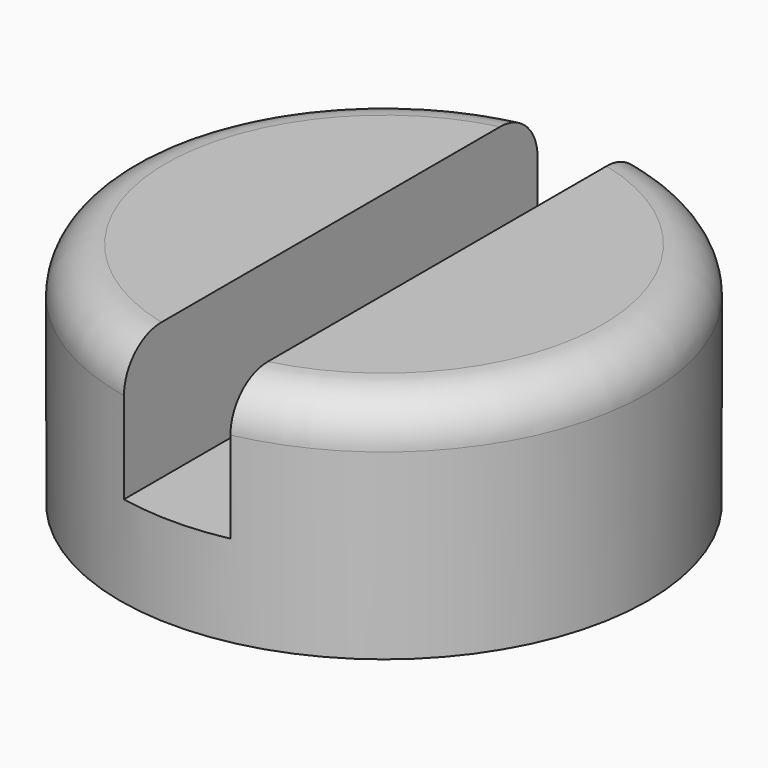
from build123d import *

# Parameters (mm, degrees)
SKETCH009_R     = 1.735
PAD004_DEPTH    = 1.5
SKETCH010_W     = 0.7
SKETCH010_H     = 4
POCKET003_DEPTH = 0.9
FILLET004_R     = 0.3


with BuildPart() as part:
    # Sketch009 → Pad004 (new body)
    with BuildSketch(Plane.XY):
        Circle(SKETCH009_R)
    extrude(amount=PAD004_DEPTH)

    # Sketch010 (on Face3 of Pad004) → Pocket003 (cut)
    with BuildSketch(Plane.XY.offset(1.5)):
        Rectangle(SKETCH010_W, SKETCH010_H)
    extrude(amount=-POCKET003_DEPTH, mode=Mode.SUBTRACT)

    # Fillet004
    fillet004_edges = [part.edges().sort_by_distance(p)[0] for p in [
        (1.344893, -1.096124, 1.5),
        (-1.735, 0, 1.5),
    ]]
    fillet(fillet004_edges, radius=FILLET004_R)


with BuildPart() as part_1:
    # Body003 placement: moved
    add(part.part.moved(Location((3.477525, 0, 6.9297))))


solid = part_1.part
